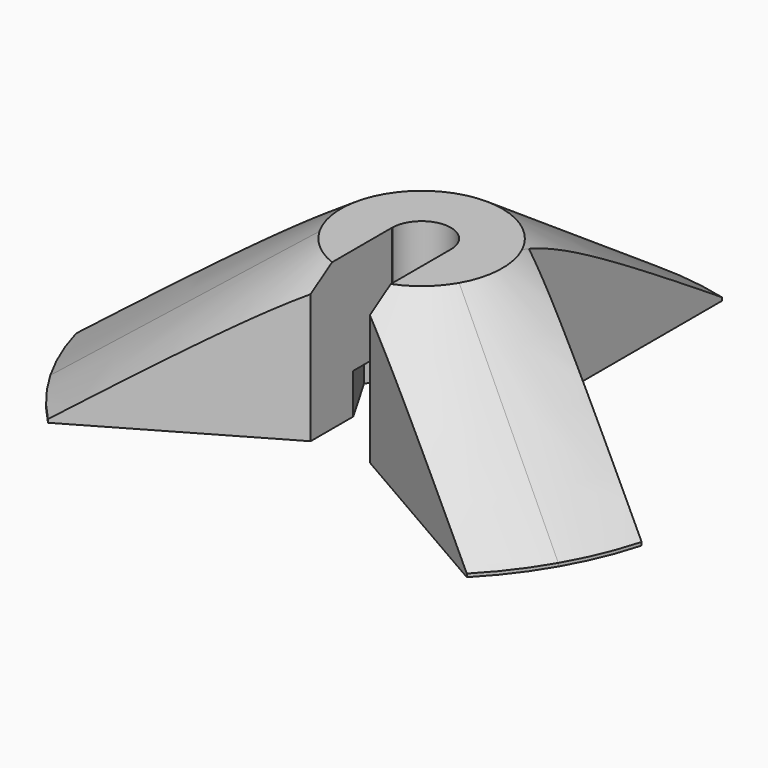
from build123d import *

# Parameters (mm, degrees)
F1_DEPTH = 20
F2_DEPTH = 5.5
F3_SIZE2 = 19.5607469884
F3_SIZE  = 29
F4_COUNT = 3
F6_DEPTH = 20


with BuildPart() as f1:
    # F0 (on Top) → F1 (new body)
    with BuildSketch(Plane.XY):
        with BuildLine():
            ThreePointArc((-4, 0), (0, 4), (4, 0))
            Line((4, 0), (7.851963661, 0))
            Line((7.851963661, 0), (3.9259818305, 6.8))
            Line((3.9259818305, 6.8), (-3.9259818305, 6.8))
            Line((-3.9259818305, 6.8), (-7.851963661, 0))
            Line((-7.851963661, 0), (-4, 0))
        make_face()
        with BuildLine():
            Line((3.9259818305, 6.8), (7.851963661, 0))
            Line((7.851963661, 0), (9.96856343, 0))
            Line((9.96856343, 0), (9.96856343, 38.7379367435))
            ThreePointArc((9.96856343, 38.7379367435), (5.024068581, 39.6832298949), (-4.8e-09, 40))
            ThreePointArc((-4.8e-09, 40), (-5.0562773626, 39.6791388419), (-10.03143657, 38.7217029628))
            Line((-10.03143657, 38.7217029628), (-10.03143657, 0))
            Line((-10.03143657, 0), (-7.851963661, 0))
            Line((-7.851963661, 0), (-3.9259818305, 6.8))
            Line((-3.9259818305, 6.8), (3.9259818305, 6.8))
        make_face()
    extrude(amount=F1_DEPTH)

    # F0 (on Top) → F2 (cut)
    with BuildSketch(Plane.XY):
        with BuildLine():
            Line((7.851963661, 0), (4, 0))
            ThreePointArc((4, 0), (0, -4), (-4, 0))
            Line((-4, 0), (-7.851963661, 0))
            Line((-7.851963661, 0), (-3.9259818305, -6.8))
            Line((-3.9259818305, -6.8), (3.9259818305, -6.8))
            Line((3.9259818305, -6.8), (7.851963661, 0))
        make_face()
        with BuildLine():
            ThreePointArc((-4, 0), (0, 4), (4, 0))
            Line((4, 0), (7.851963661, 0))
            Line((7.851963661, 0), (3.9259818305, 6.8))
            Line((3.9259818305, 6.8), (-3.9259818305, 6.8))
            Line((-3.9259818305, 6.8), (-7.851963661, 0))
            Line((-7.851963661, 0), (-4, 0))
        make_face()
    extrude(amount=F2_DEPTH, mode=Mode.SUBTRACT)

    # F3
    f3_edges = [f1.edges().sort_by_distance(p)[0] for p in [
        (-0.032468, 39.999987, 20),
    ]]
    f3_side = f1.faces().sort_by_distance((-0.031771, 20.384779, 20))[0]
    chamfer(f3_edges, length=F3_SIZE, length2=F3_SIZE2, reference=f3_side)

    # F4: F1 ×3 about axis
    f4_axis = Axis((0, 0, 0.4392530116), (0, 0, -1))


with BuildPart() as f1_1:
    add(f1.part)
    for i in range(1, F4_COUNT):
        add(f1.part.rotate(f4_axis, i * 360 / F4_COUNT))

    # F5 (on face) → F6 (cut, through all)
    with BuildSketch(Plane.XY.offset(20)):
        with BuildLine():
            Line((4, -10.246950766), (4, 0))
            ThreePointArc((4, 0), (0, -4), (-4, 0))
            Line((-4, 0), (-4.017717205, 0))
            Line((-4.017717205, 0), (-4.017717205, -10.2400170147))
            ThreePointArc((-4.017717205, -10.2400170147), (-2.5130421152, -10.7090904995), (-0.9567753703, -10.9583110419))
            ThreePointArc((-0.9567753703, -10.9583110419), (1.5626299617, -10.8884428456), (4, -10.246950766))
        make_face()
        with BuildLine():
            Line((4, -15.0901665911), (4, -10.246950766))
            ThreePointArc((4, -10.246950766), (1.5626299617, -10.8884428456), (-0.9567753703, -10.9583110419))
            ThreePointArc((-0.9567753703, -10.9583110419), (-2.5130421152, -10.7090904995), (-4.017717205, -10.2400170147))
            Line((-4.017717205, -10.2400170147), (-4.017717205, -15.0901665911))
            Line((-4.017717205, -15.0901665911), (4, -15.0901665911))
        make_face()
    extrude(amount=-F6_DEPTH, mode=Mode.SUBTRACT)


solid = f1_1.part
